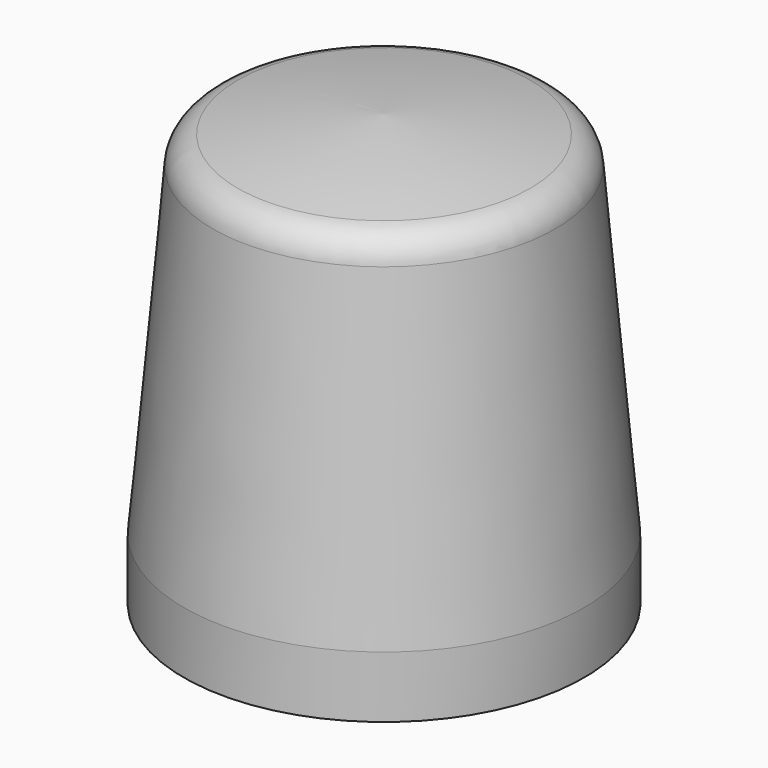
from build123d import *


with BuildPart() as f1:
    # F0 (on Front) → F1 (revolve)
    with BuildSketch(Plane.XZ):
        with BuildLine():
            Line((-5.566325, 5.525438), (-6.5, -5))
            Line((-6.5, -5), (-6.5, -7))
            Line((-6.5, -7), (0, -7))
            Line((0, -7), (0, 7))
            ThreePointArc((0, 7), (-2.38596, 6.785017), (-4.753633, 6.420118))
            ThreePointArc((-4.753633, 6.420118), (-5.310445, 6.109456), (-5.566325, 5.525438))
        make_face()
    revolve(axis=Axis((0, 0, 3.897291), (0, 0, -1)))


solid = f1.part
